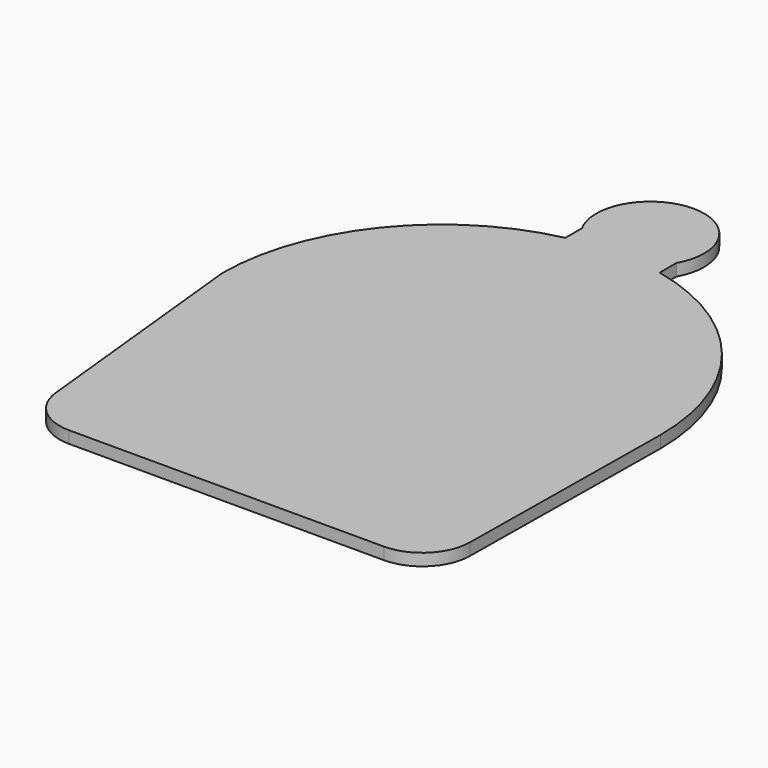
from build123d import *

# Parameters (mm, degrees)
F1_DEPTH = 3.175


with BuildPart() as f1:
    # F0 (on Top) → F1 (new body)
    with BuildSketch(Plane.XY):
        with BuildLine():
            ThreePointArc((-51.382727, -63.322074), (-47.252988, -71.439249), (-38.751229, -74.704728))
            Line((-38.751229, -74.704728), (44.572058, -74.70469))
            ThreePointArc((44.572058, -74.70469), (53.500479, -71.036479), (57.271211, -62.150869))
            Line((57.271211, -62.150869), (57.986624, 0))
            ThreePointArc((57.986624, 0), (45.19944, 36.32436), (12.477537, 56.628258))
            Line((12.477537, 56.628258), (12.477537, 62.13904))
            ThreePointArc((12.477537, 62.13904), (0, 83.386181), (-12.477537, 62.13904))
            Line((-12.477537, 62.13904), (-12.477537, 56.628258))
            ThreePointArc((-12.477537, 56.628258), (-45.19944, 36.32436), (-57.986624, 0))
            Line((-57.986624, 0), (-51.382727, -63.322074))
        make_face()
    extrude(amount=-F1_DEPTH)


solid = f1.part
